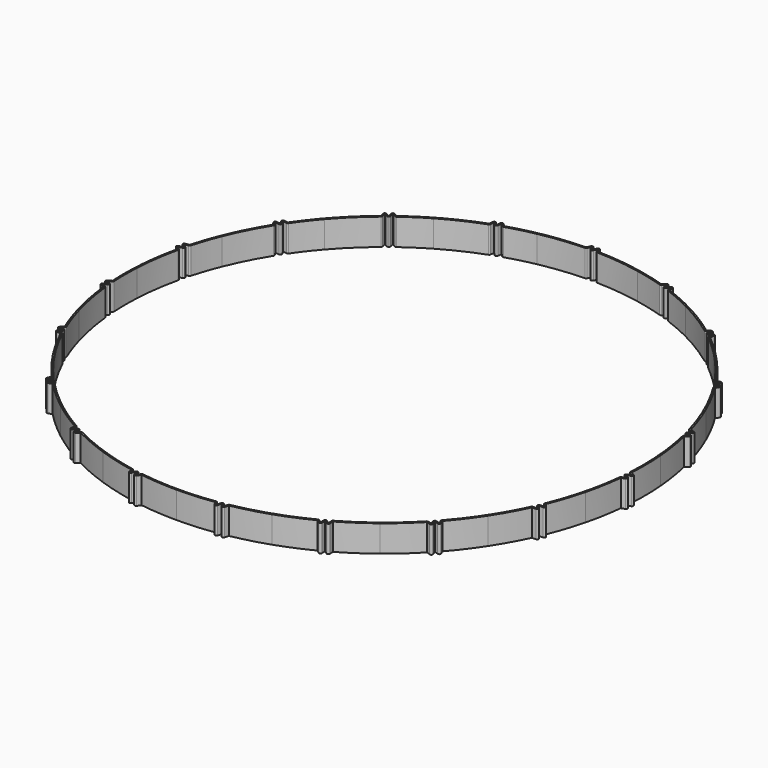
from build123d import *

# Parameters (mm, degrees)
PAD_DEPTH          = 8
POLARPATTERN_COUNT = 19


with BuildPart() as part:
    # Sketch → Pad (new body)
    with BuildSketch(Plane.XY):
        with BuildLine():
            ThreePointArc((15, 76.034532), (8.450544, 77.037902), (1.83932, 77.47817))
            ThreePointArc((1.439909, 77.742772), (1.601473, 77.552898), (1.83932, 77.47817))
            Line((0.945851, 78.836347), (1.439909, 77.742772))
            Line((0.425698, 77.75494), (0.945851, 78.836347))
            ThreePointArc((0.020054, 77.499997), (0.259625, 77.568997), (0.425698, 77.75494))
            ThreePointArc((0.020054, 77.499997), (0, 77.5), (-0.020054, 77.499997))
            ThreePointArc((-0.425698, 77.75494), (-0.259625, 77.568997), (-0.020054, 77.499997))
            Line((-0.945851, 78.836347), (-0.425698, 77.75494))
            Line((-1.439909, 77.742772), (-0.945851, 78.836347))
            ThreePointArc((-1.83932, 77.47817), (-1.601473, 77.552898), (-1.439909, 77.742772))
            ThreePointArc((-1.83932, 77.47817), (-8.450544, 77.037902), (-15, 76.034532))
            Line((-15.087097, 76.476022), (-15, 76.034532))
            ThreePointArc((-1.85, 77.928044), (-8.499612, 77.485219), (-15.087097, 76.476022))
            Line((-1.85, 77.928044), (-1.355942, 79.021619))
            ThreePointArc((-0.540324, 79.031404), (-0.95125, 79.286315), (-1.355942, 79.021619))
            Line((-0.540324, 79.031404), (-0.020171, 77.949997))
            ThreePointArc((0.020171, 77.949997), (0, 77.95), (-0.020171, 77.949997))
            Line((0.020171, 77.949997), (0.540324, 79.031404))
            ThreePointArc((1.355942, 79.021619), (0.95125, 79.286315), (0.540324, 79.031404))
            Line((1.355942, 79.021619), (1.85, 77.928044))
            ThreePointArc((15.087097, 76.476022), (8.499612, 77.485219), (1.85, 77.928044))
            Line((15, 76.034532), (15.087097, 76.476022))
        make_face()
    pad = extrude(amount=PAD_DEPTH)

    # PolarPattern: Pad ×19 about axis
    polarpattern_axis = Axis((0, 0, 0), (0, 0, 1))
    for i in range(1, POLARPATTERN_COUNT):
        add(pad.rotate(polarpattern_axis, i * 360 / POLARPATTERN_COUNT))


solid = part.part
